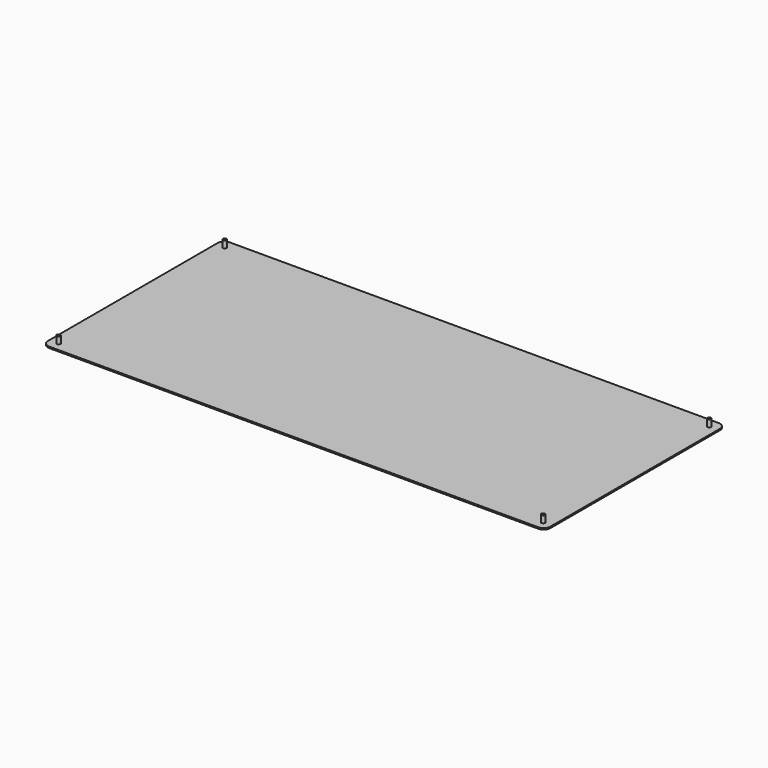
from build123d import *

# Parameters (mm, degrees)
PAD_DEPTH    = 1
SKETCH001_R  = 1.35
PAD001_DEPTH = 6
SKETCH003_R  = 1.35
PAD002_DEPTH = 6
SKETCH002_R  = 1.35
PAD003_DEPTH = 6
SKETCH004_R  = 1.35
PAD004_DEPTH = 6


with BuildPart() as part:
    # Sketch → Pad (new body)
    with BuildSketch(Plane.XY):
        with BuildLine():
            Line((-181.5, 76.5), (-181.5, -76.5))
            ThreePointArc((-181.5, -76.5), (-180.035534, -80.035534), (-176.5, -81.5))
            Line((-176.5, -81.5), (176.5, -81.5))
            ThreePointArc((176.5, -81.5), (180.035534, -80.035534), (181.5, -76.5))
            Line((181.5, -76.5), (181.5, 76.5))
            ThreePointArc((181.5, 76.5), (180.035534, 80.035534), (176.5, 81.5))
            Line((176.5, 81.5), (-176.5, 81.5))
            ThreePointArc((-176.5, 81.5), (-180.035534, 80.035534), (-181.5, 76.5))
        make_face()
    extrude(amount=PAD_DEPTH)

    # Sketch001 → Pad001 (join)
    with BuildSketch(Plane.XY):
        with Locations((-175, 75)):
            Circle(SKETCH001_R)
    extrude(amount=PAD001_DEPTH)

    # Sketch003 → Pad002 (join)
    with BuildSketch(Plane.XY):
        with Locations((175, 75)):
            Circle(SKETCH003_R)
    extrude(amount=PAD002_DEPTH)

    # Sketch002 → Pad003 (join)
    with BuildSketch(Plane.XY):
        with Locations((-175, -75)):
            Circle(SKETCH002_R)
    extrude(amount=PAD003_DEPTH)

    # Sketch004 → Pad004 (join)
    with BuildSketch(Plane.XY):
        with Locations((175, -75)):
            Circle(SKETCH004_R)
    extrude(amount=PAD004_DEPTH)


solid = part.part
